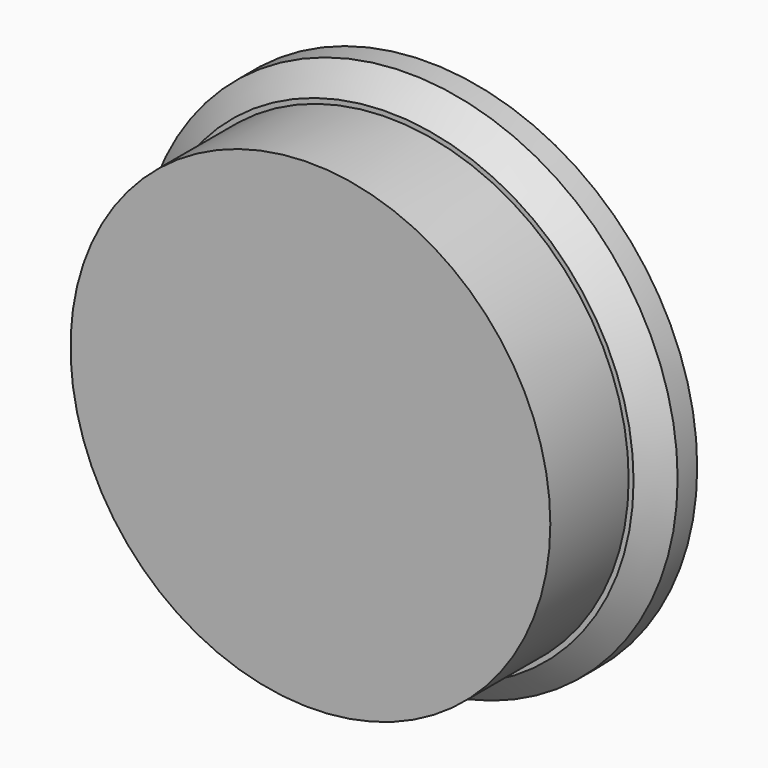
from build123d import *

# Parameters (mm, degrees)
SKETCH003_R     = 4.9
PAD002_DEPTH    = 2
SKETCH004_R     = 5.5
PAD003_DEPTH    = 1
CHAMFER005_SIZE = 0.5


with BuildPart() as part:
    # Sketch003 → Pad002 (new body)
    with BuildSketch(Plane.XZ):
        with Locations((-27.765049, 49.769871)):
            Circle(SKETCH003_R)
    extrude(amount=PAD002_DEPTH)

    # Sketch004 (on Face2 of Pad002) → Pad003 (join)
    with BuildSketch(Plane(origin=(0, 0, 0), x_dir=(1, 0, 0), z_dir=(0, 1, 0))):
        with Locations((-27.765049, -49.769871)):
            Circle(SKETCH004_R)
    extrude(amount=PAD003_DEPTH)

    # Chamfer005
    chamfer005_edges = [part.edges().sort_by_distance(p)[0] for p in [
        (-33.265049, 0, 49.769871),
    ]]
    chamfer(chamfer005_edges, length=CHAMFER005_SIZE)


with BuildPart() as part_1:
    # Body001 placement: moved
    add(part.part.moved(Location((1.3, -51.8, -37.8))))


solid = part_1.part
